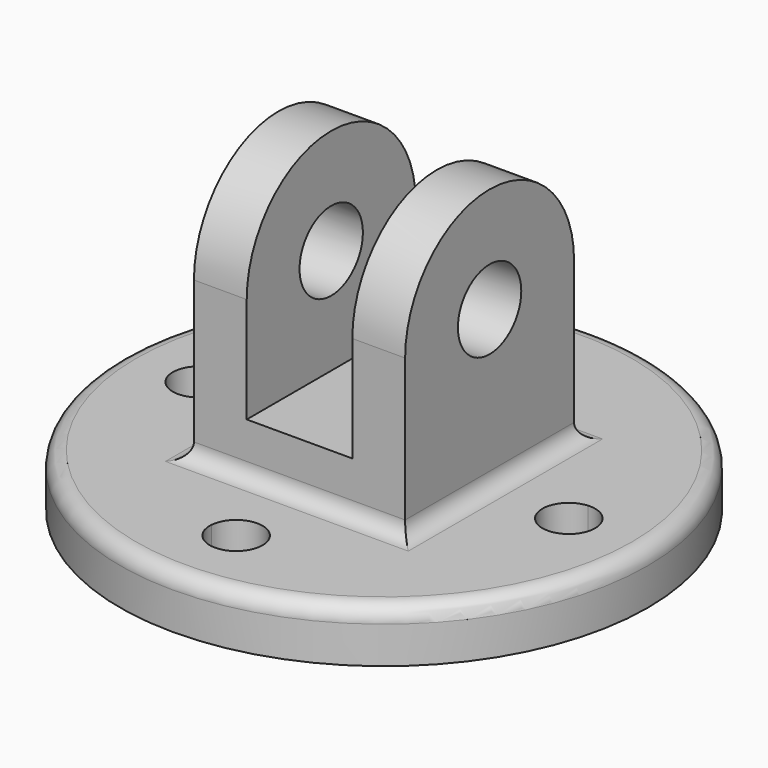
from build123d import *

# Parameters (mm, degrees)
F0_R      = 63.5
F1_DEPTH  = 6.35
F2_W      = 50.8
F2_H      = 50.8
F3_DEPTH  = 76.2
F4_W      = 25.4
F4_H      = 63.5
F5_DEPTH  = 88.901
F6_R      = 9.525
F8_DEPTH  = 88.901
F9_DEPTH  = 88.901
F11_DEPTH = 12.701
F12_R     = 3.81


with BuildPart() as f1:
    # F0 (on Top) → F1 (new body, symmetric)
    with BuildSketch(Plane.XY):
        Circle(F0_R)
    extrude(amount=F1_DEPTH, both=True)

    # F2 (on face) → F3 (join)
    with BuildSketch(Plane.XY.offset(6.35)):
        Rectangle(F2_W, F2_H)
    extrude(amount=F3_DEPTH)

    # F4 (on face) → F5 (cut, through all)
    with BuildSketch(Plane.XZ.offset(25.4)):
        with Locations((0, 50.8)):
            Rectangle(F4_W, F4_H)
    extrude(amount=-F5_DEPTH, mode=Mode.SUBTRACT)

    # F6 (on face) → F8 (cut, through all)
    with BuildSketch(Plane.YZ.offset(25.4)):
        with Locations((0, 44.45)):
            Circle(F6_R)
    extrude(amount=-F8_DEPTH, mode=Mode.SUBTRACT)

    # F7 (on face) → F9 (cut, through all)
    with BuildSketch(Plane.YZ.offset(25.4)):
        with BuildLine():
            ThreePointArc((-25.4, 44.45), (0, 69.85), (25.4, 44.45))
            Line((25.4, 44.45), (25.4, 82.55))
            Line((25.4, 82.55), (-25.4, 82.55))
            Line((-25.4, 82.55), (-25.4, 44.45))
        make_face()
    extrude(amount=-F9_DEPTH, mode=Mode.SUBTRACT)

    # F10 (on face) → F11 (cut, through all)
    with BuildSketch(Plane.XY.offset(6.35)):
        with BuildLine():
            ThreePointArc((-43.9964285714, -6.3337803056), (-44.45, 0), (-43.9964285714, 6.3337803056))
            ThreePointArc((-43.9964285714, 6.3337803056), (-50.8, 0), (-43.9964285714, -6.3337803056))
        make_face()
        with BuildLine():
            ThreePointArc((-38.1, 0), (-39.8022759026, 4.3267956636), (-43.9964285714, 6.3337803056))
            ThreePointArc((-43.9964285714, 6.3337803056), (-44.45, 0), (-43.9964285714, -6.3337803056))
            ThreePointArc((-43.9964285714, -6.3337803056), (-39.8022759026, -4.3267956636), (-38.1, 0))
        make_face()
        with BuildLine():
            ThreePointArc((-6.3337803056, 43.9964285714), (0, 38.1), (6.3337803056, 43.9964285714))
            ThreePointArc((6.3337803056, 43.9964285714), (0, 44.45), (-6.3337803056, 43.9964285714))
        make_face()
        with BuildLine():
            ThreePointArc((-6.3337803056, 43.9964285714), (0, 44.45), (6.3337803056, 43.9964285714))
            ThreePointArc((6.3337803056, 43.9964285714), (6.3459437809, 44.2230693282), (6.35, 44.45))
            ThreePointArc((6.35, 44.45), (-0.2269306718, 50.7959437809), (-6.3337803056, 43.9964285714))
        make_face()
        with BuildLine():
            ThreePointArc((43.9964285714, -6.3337803056), (44.336462139, -3.175), (44.45, 0))
            ThreePointArc((44.45, 0), (44.336462139, 3.175), (43.9964285714, 6.3337803056))
            ThreePointArc((43.9964285714, 6.3337803056), (38.1, 0), (43.9964285714, -6.3337803056))
        make_face()
        with BuildLine():
            ThreePointArc((43.9964285714, 6.3337803056), (44.336462139, 3.175), (44.45, 0))
            ThreePointArc((44.45, 0), (44.336462139, -3.175), (43.9964285714, -6.3337803056))
            ThreePointArc((43.9964285714, -6.3337803056), (48.7767956636, -4.6477240974), (50.8, 0))
            ThreePointArc((50.8, 0), (48.7767956636, 4.6477240974), (43.9964285714, 6.3337803056))
        make_face()
        with BuildLine():
            ThreePointArc((-6.3337803056, -43.9964285714), (0, -44.45), (6.3337803056, -43.9964285714))
            ThreePointArc((6.3337803056, -43.9964285714), (0, -38.1), (-6.3337803056, -43.9964285714))
        make_face()
        with BuildLine():
            ThreePointArc((6.35, -44.45), (6.3459437809, -44.2230693282), (6.3337803056, -43.9964285714))
            ThreePointArc((6.3337803056, -43.9964285714), (0, -44.45), (-6.3337803056, -43.9964285714))
            ThreePointArc((-6.3337803056, -43.9964285714), (-0.2269306718, -50.7959437809), (6.35, -44.45))
        make_face()
    extrude(amount=-F11_DEPTH, mode=Mode.SUBTRACT)

    # F12
    f12_edges = [f1.edges().sort_by_distance(p)[0] for p in [
        (-63.5, 0, 6.35),
        (25.4, 0, 6.35),
        (0, -25.4, 6.35),
        (-25.4, 0, 6.35),
        (0, 25.4, 6.35),
    ]]
    fillet(f12_edges, radius=F12_R)


solid = f1.part
